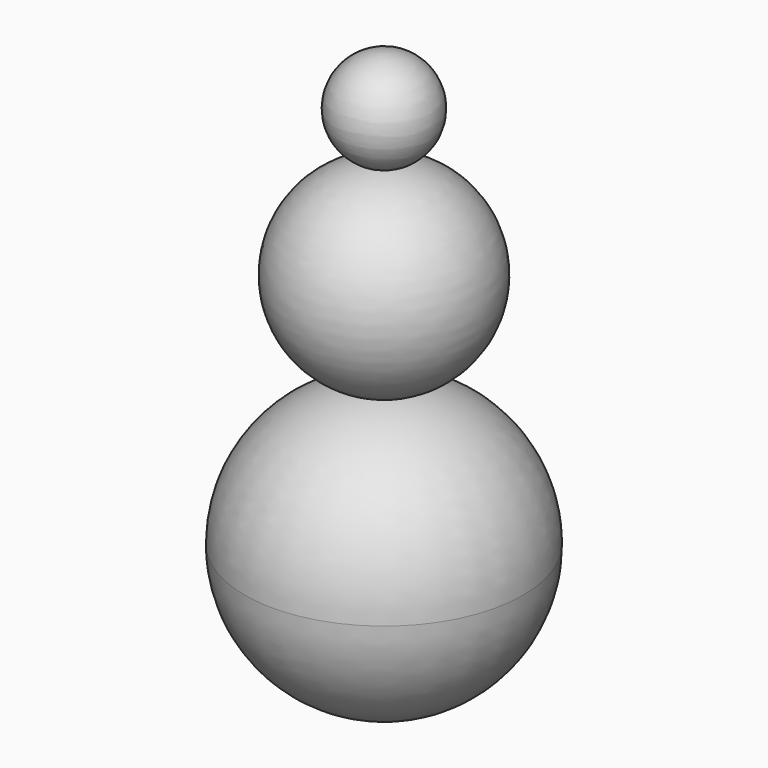
from build123d import *


with BuildPart() as f2:
    # F0 (on Front) → F2 (revolve)
    with BuildSketch(Plane.XZ):
        with BuildLine():
            ThreePointArc((0, 75.346232), (-8.482784, 66.863447), (0, 58.380663))
            Line((0, 58.380663), (0, 75.346232))
        make_face()
        with BuildLine():
            ThreePointArc((0, 58.380663), (-17.065039, 41.315624), (0, 24.250586))
            Line((0, 24.250586), (0, 58.380663))
        make_face()
        with BuildLine():
            Line((0, 24.250586), (0, -24.250586))
            ThreePointArc((0, -24.250586), (17.147754, -17.147754), (24.250586, 0))
            ThreePointArc((24.250586, 0), (17.147754, 17.147754), (0, 24.250586))
        make_face()
    revolve(axis=Axis((0, 0, 33.675097), (0, 0, -1)))


solid = f2.part
